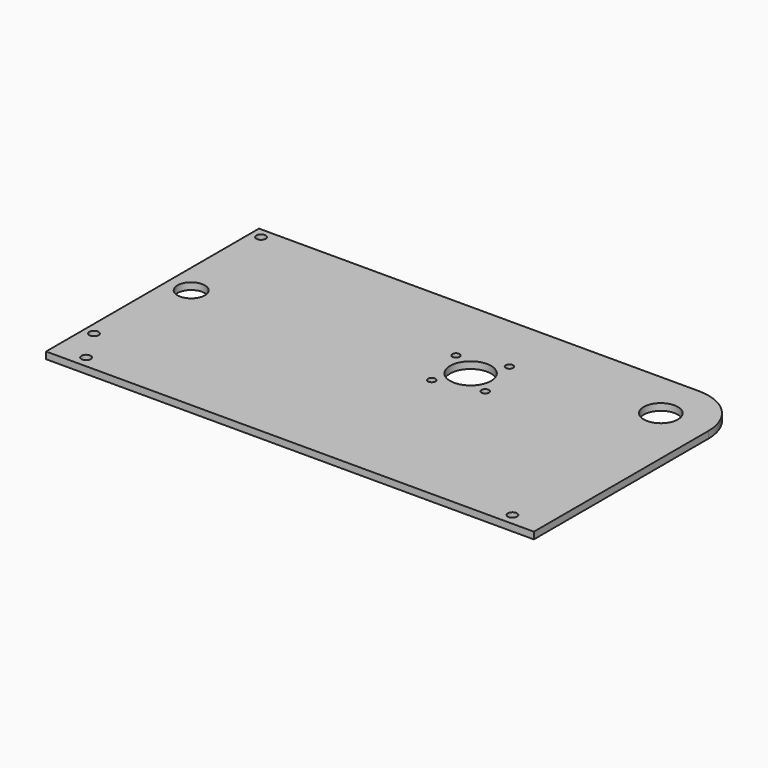
from build123d import *

# Parameters (mm, degrees)
F0_R     = 2.15265
F0_R_2   = 6.35
F0_R_3   = 1.7272
F0_R_4   = 9.525
F0_R_5   = 7.9375
F1_DEPTH = 3.175


with BuildPart() as f1:
    # F0 (on Top) → F1 (new body)
    with BuildSketch(Plane.XY):
        with BuildLine():
            Line((0, 22.225), (-204.709583, 22.225))
            Line((-204.709583, 22.225), (-204.709583, -101.6))
            Line((-204.709583, -101.6), (22.225, -101.6))
            Line((22.225, -101.6), (22.225, -90.805))
            Line((22.225, -90.805), (22.225, 0))
            ThreePointArc((22.225, 0), (15.715448, 15.715448), (0, 22.225))
        make_face()
        with Locations((-190.422083, -96.2025)):
            Circle(F0_R, mode=Mode.SUBTRACT)
        with Locations((-199.947083, -79.6925)):
            Circle(F0_R, mode=Mode.SUBTRACT)
        with Locations((7.9375, -96.2025)):
            Circle(F0_R, mode=Mode.SUBTRACT)
        with Locations((-193.597083, -31.115)):
            Circle(F0_R_2, mode=Mode.SUBTRACT)
        with Locations((-199.947083, 17.4625)):
            Circle(F0_R, mode=Mode.SUBTRACT)
        with Locations((-81.238881, -31.663497)):
            Circle(F0_R_3, mode=Mode.SUBTRACT)
        with Locations((-60.568717, -26.406832)):
            Circle(F0_R_3, mode=Mode.SUBTRACT)
        with Locations((-73.532132, -18.700083)):
            Circle(F0_R_4, mode=Mode.SUBTRACT)
        with Locations((-86.495546, -10.993334)):
            Circle(F0_R_3, mode=Mode.SUBTRACT)
        with Locations((-65.825382, -5.736669)):
            Circle(F0_R_3, mode=Mode.SUBTRACT)
        Circle(F0_R_5, mode=Mode.SUBTRACT)
    extrude(amount=F1_DEPTH)


solid = f1.part
